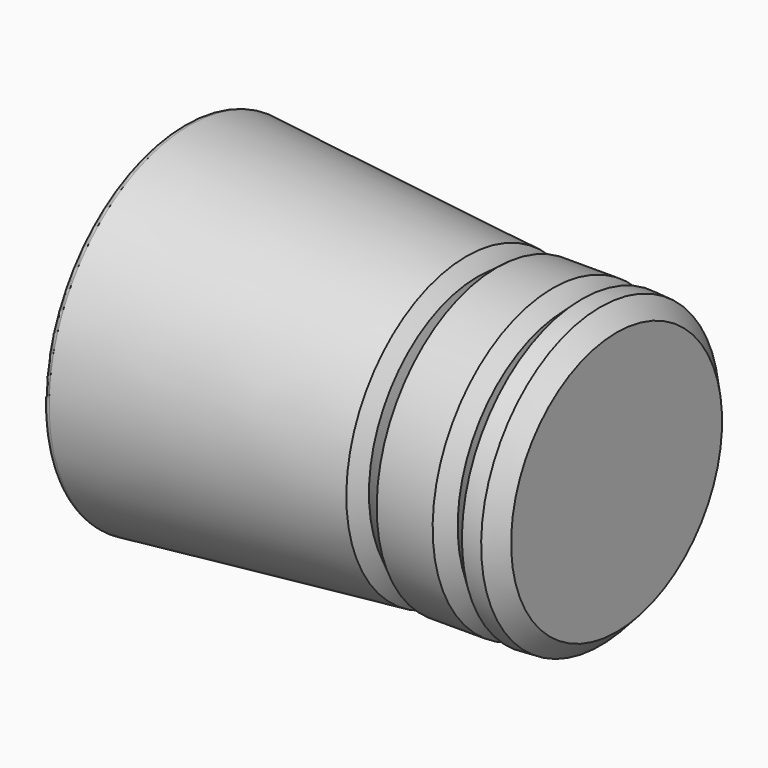
from build123d import *

# Parameters (mm, degrees)
F2_R     = 38.1
F3_DEPTH = 82.55
F3_TAPER = 6
F4_SIZE  = 3.81
F5_R     = 1.27
F6_R     = 1.27


with BuildPart() as f1:
    # F0 (on Front) → F1 (revolve)
    with BuildSketch(Plane.XZ):
        Polygon((-60.6646513261, 41.275), (-60.6646513261, 0), (40.9353486739, 0), (40.9353486739, 34.7477929017), (32.8286082969, 35.2272205055), (29.094543308, 31.804330647), (25.956897065, 35.2272205055), (12.8358363484, 35.2272205055), (8.2719782367, 31.804330647), (5.7048136368, 35.2272205055), align=None)
    revolve(axis=Axis((-9.8646513261, 0, 0), (-1, 0, 0)))

    # F2 (on face) → F3 (cut)
    with BuildSketch(Plane(origin=(-60.6646513261, 0, 0), x_dir=(0, -1, 0), z_dir=(-1, 0, 0))):
        Circle(F2_R)
    extrude(amount=-F3_DEPTH, taper=F3_TAPER, mode=Mode.SUBTRACT)

    # F4
    f4_edges = [f1.edges().sort_by_distance(p)[0] for p in [
        (40.935349, 0, -34.747793),
    ]]
    chamfer(f4_edges, length=F4_SIZE)

    # F5
    f5_edges = [f1.edges().sort_by_distance(p)[0] for p in [
        (-60.664651, 0, -41.275),
    ]]
    fillet(f5_edges, radius=F5_R)

    # F6
    f6_edges = [f1.edges().sort_by_distance(p)[0] for p in [
        (-60.664651, 0, -39.884012),
        (-60.664651, 38.1, 0),
    ]]
    fillet(f6_edges, radius=F6_R)


solid = f1.part
